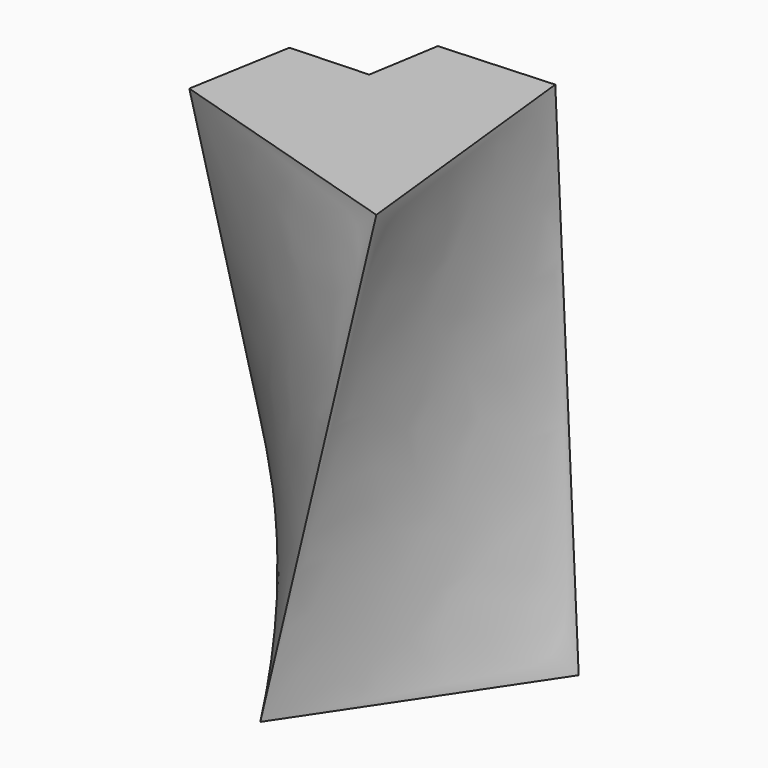
from build123d import *


with BuildPart() as f3:
    # F0 (on Top) → F3 section 0
    with BuildSketch(Plane.XY):
        Polygon((29.147545, 75.63787), (0, 50.570983), (-32.645244, 75.63787), (-75.200655, 39.786398), (0, -75.929344), (77.240989, 39.786398), align=None)
    # F2 (on offset) → F3 section 1
    with BuildSketch(Plane.XY.offset(254)):
        Polygon((-18.209198, 65.17633), (-24.424829, 27.238301), (-65.545221, 25.456691), (-75.099675, -29.36122), (56.888014, -69.666572), (41.677399, 68.62638), align=None)
    loft()


solid = f3.part
